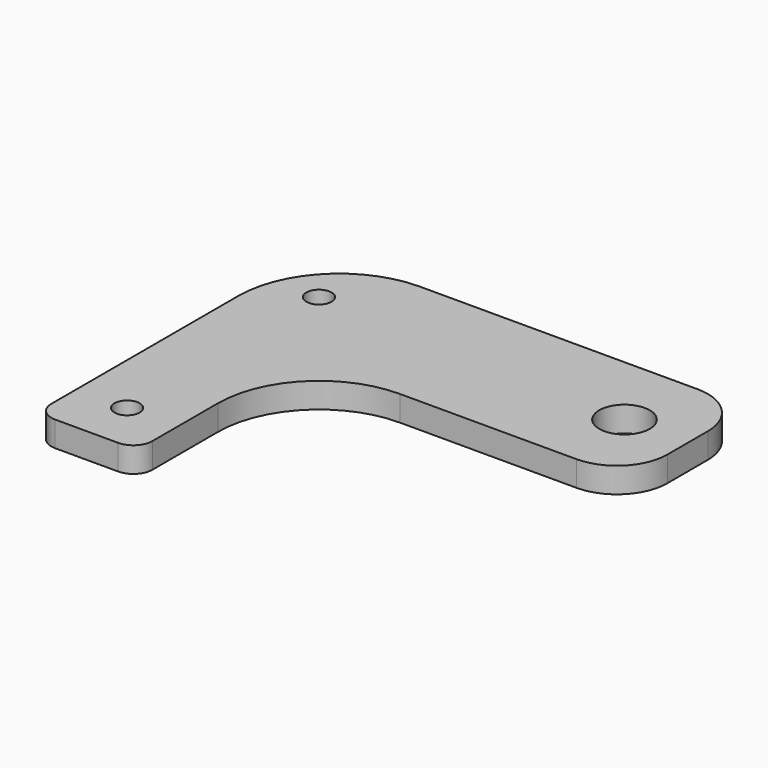
from build123d import *

# Parameters (mm, degrees)
F1_DEPTH = 6.35
F2_R     = 25.4
F3_R     = 12.7
F4_R     = 25.4
F5_R     = 4.7752
F7_D     = 12.7
F9_D     = 6.35
F11_D    = 6.35


with BuildPart() as f1:
    # F0 (on Top) → F1 (new body)
    with BuildSketch(Plane.XY):
        Polygon((55.1337133169, 65.8959785044), (-52.8162866831, 65.8959785044), (-52.8162866831, -23.0040214956), (-27.4162866831, -23.0040214956), (-27.4162866831, 27.7959785044), (55.1337133169, 27.7959785044), align=None)
    extrude(amount=F1_DEPTH)

    # F2
    f2_edges = [f1.edges().sort_by_distance(p)[0] for p in [
        (-52.816287, 65.895979, 3.175),
    ]]
    fillet(f2_edges, radius=F2_R)

    # F3
    f3_edges = [f1.edges().sort_by_distance(p)[0] for p in [
        (55.133713, 65.895979, 3.175),
        (55.133713, 27.795979, 3.175),
    ]]
    fillet(f3_edges, radius=F3_R)

    # F4
    f4_edges = [f1.edges().sort_by_distance(p)[0] for p in [
        (-27.416287, 27.795979, 3.175),
    ]]
    fillet(f4_edges, radius=F4_R)

    # F5
    f5_edges = [f1.edges().sort_by_distance(p)[0] for p in [
        (-27.416287, -23.004021, 3.175),
        (-52.816287, -23.004021, 3.175),
    ]]
    fillet(f5_edges, radius=F5_R)

    # F7 (through all)
    with Locations(Plane(origin=(0, 0, 0), x_dir=(1, 0, 0), z_dir=(0, 0, -1))):
        with Locations((39.2587133169, -46.8459785044)):
            Hole(F7_D / 2)

    # F9 (through all)
    with Locations(Plane(origin=(0, 0, 0), x_dir=(1, 0, 0), z_dir=(0, 0, -1))):
        with Locations((-40.1162866831, 10.3040214956)):
            Hole(F9_D / 2)

    # F11 (through all)
    with Locations(Plane(origin=(0, 0, 0), x_dir=(1, 0, 0), z_dir=(0, 0, -1))):
        with Locations((-40.1162866831, -50.0209785044)):
            Hole(F11_D / 2)


solid = f1.part
